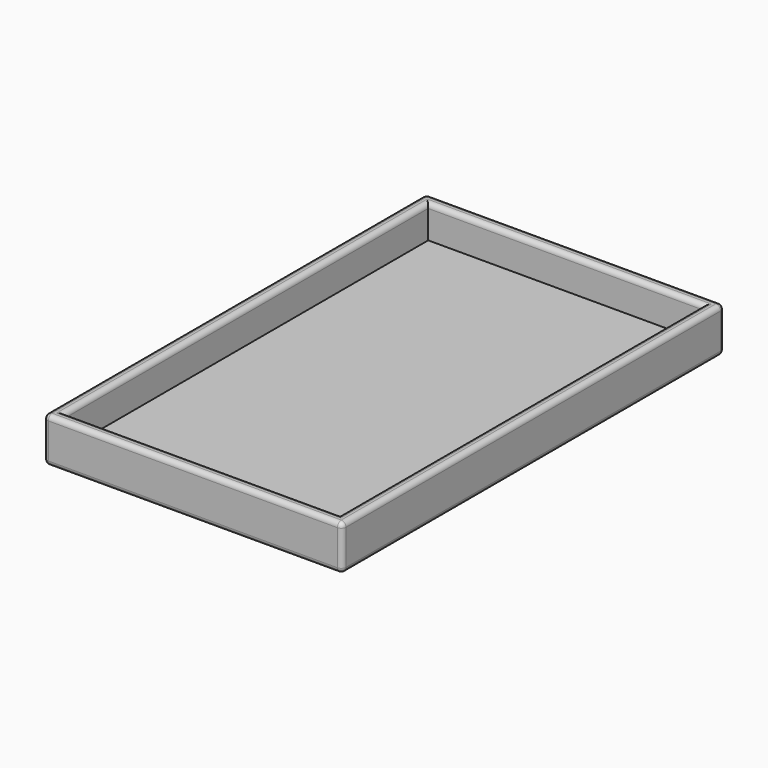
from build123d import *

# Parameters (mm, degrees)
F0_W     = 63.5
F0_H     = 101.6
F1_DEPTH = 9.525
F2_T     = -2.54
F3_R     = 1.016


with BuildPart() as f1:
    # F0 (on Top) → F1 (new body)
    with BuildSketch(Plane.XY):
        Rectangle(F0_W, F0_H)
    extrude(amount=F1_DEPTH)

    # F2
    f2_openings = [f1.faces().sort_by_distance(p)[0] for p in [
        (0, 0, 9.525),
    ]]
    offset(amount=F2_T, openings=f2_openings)

    # F3
    f3_edges = [f1.edges().sort_by_distance(p)[0] for p in [
        (-31.75, 0, 0),
        (0, -50.8, 0),
        (31.75, 0, 0),
        (0, 50.8, 0),
        (-31.75, 0, 9.525),
        (0, -50.8, 9.525),
        (31.75, 0, 9.525),
        (0, 50.8, 9.525),
        (-29.21, 0, 9.525),
        (0, 48.26, 9.525),
        (29.21, 0, 9.525),
        (0, -48.26, 9.525),
        (-31.75, 50.8, 4.7625),
        (-31.75, -50.8, 4.7625),
        (31.75, 50.8, 4.7625),
        (31.75, -50.8, 4.7625),
    ]]
    fillet(f3_edges, radius=F3_R)


solid = f1.part
